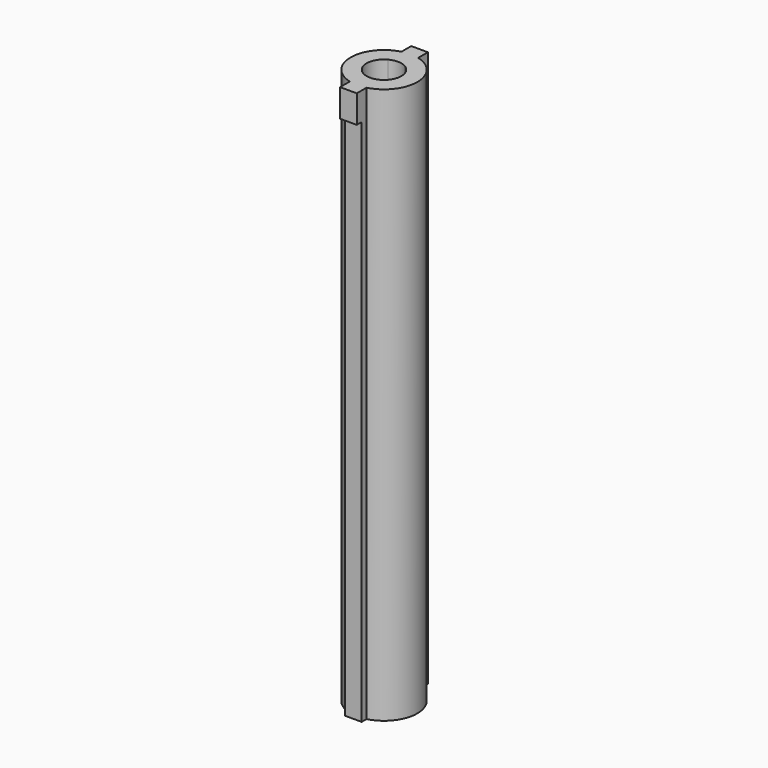
from build123d import *

# Parameters (mm, degrees)
F0_R      = 7.62
F1_DEPTH  = 127
F2_R      = 3.96875
F3_DEPTH  = 19.05
F4_W      = 3.81
F4_H      = 20.32
F5_DEPTH  = 127
F7_DEPTH  = 19.05
F8_R      = 3.96875
F9_DEPTH  = 19.05
F10_W     = 3.81
F10_H     = 1.3909833627
F11_DEPTH = 120.65


with BuildPart() as f1:
    # F0 (on Top) → F1 (new body)
    with BuildSketch(Plane.XY):
        Circle(F0_R)
    extrude(amount=F1_DEPTH)

    # F2 (on face) → F3 (cut)
    with BuildSketch(Plane.XY.offset(127)):
        Circle(F2_R)
    extrude(amount=-F3_DEPTH, mode=Mode.SUBTRACT)

    # F4 (on Top) → F5 (join)
    with BuildSketch(Plane.XY):
        Rectangle(F4_W, F4_H)
    extrude(amount=F5_DEPTH)

    # F6 (on face) → F7 (cut)
    with BuildSketch(Plane.XY.offset(127)):
        with BuildLine():
            Line((1.905, -3.4816593117), (1.905, 3.4816593117))
            ThreePointArc((1.905, 3.4816593117), (0, 3.96875), (-1.905, 3.4816593117))
            Line((-1.905, 3.4816593117), (-1.905, -3.4816593117))
            ThreePointArc((-1.905, -3.4816593117), (0, -3.96875), (1.905, -3.4816593117))
        make_face()
    extrude(amount=-F7_DEPTH, mode=Mode.SUBTRACT)

    # F8 (on Top) → F9 (cut)
    with BuildSketch(Plane.XY):
        Circle(F8_R)
    extrude(amount=F9_DEPTH, mode=Mode.SUBTRACT)

    # F10 (on face) → F11 (cut)
    with BuildSketch(Plane(origin=(0, 0, 0), x_dir=(1, 0, 0), z_dir=(0, 0, -1))):
        with Locations((0, 9.4645083186)):
            Rectangle(F10_W, F10_H)
    extrude(amount=-F11_DEPTH, mode=Mode.SUBTRACT)


solid = f1.part
